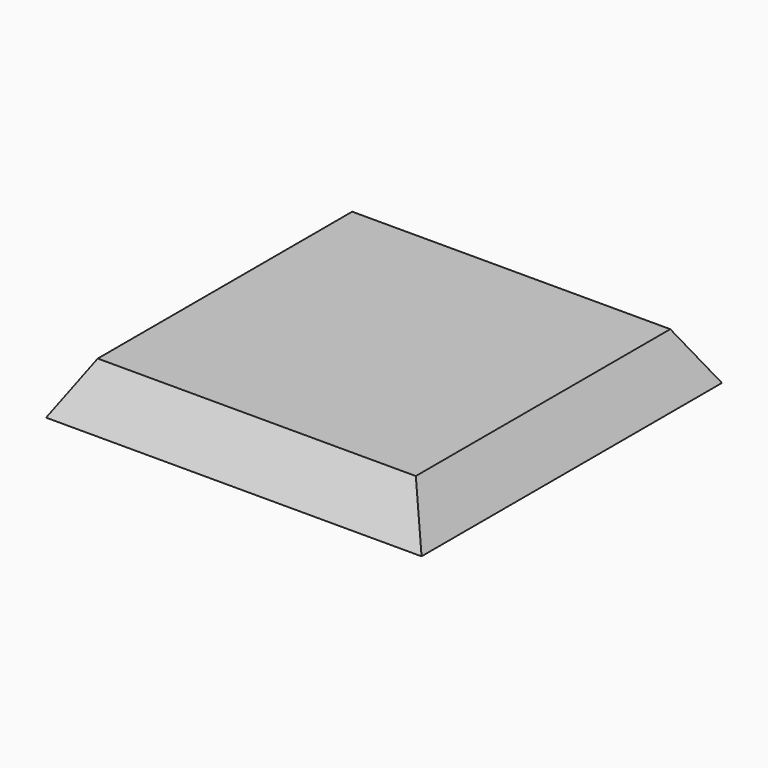
from build123d import *

# Parameters (mm, degrees)
F0_W     = 160
F0_H     = 160
F1_DEPTH = 25
F1_TAPER = -30
F2_R     = 2
F3_DEPTH = 16


with BuildPart() as f1:
    # F0 (on Top) → F1 (new body)
    with BuildSketch(Plane.XY):
        Rectangle(F0_W, F0_H)
    extrude(amount=-F1_DEPTH, taper=F1_TAPER)

    # F2 (on face) → F3 (cut)
    with BuildSketch(Plane(origin=(0, 0, -25), x_dir=(1, 0, 0), z_dir=(0, 0, -1))):
        with Locations((-74.4337567297, -74.4337567297)):
            Circle(F2_R)
        with Locations((-74.4337567297, 74.4337567297)):
            Circle(F2_R)
        with Locations((74.4337567297, 74.4337567297)):
            Circle(F2_R)
        with Locations((74.4337567297, -74.4337567297)):
            Circle(F2_R)
    extrude(amount=-F3_DEPTH, mode=Mode.SUBTRACT)


solid = f1.part
